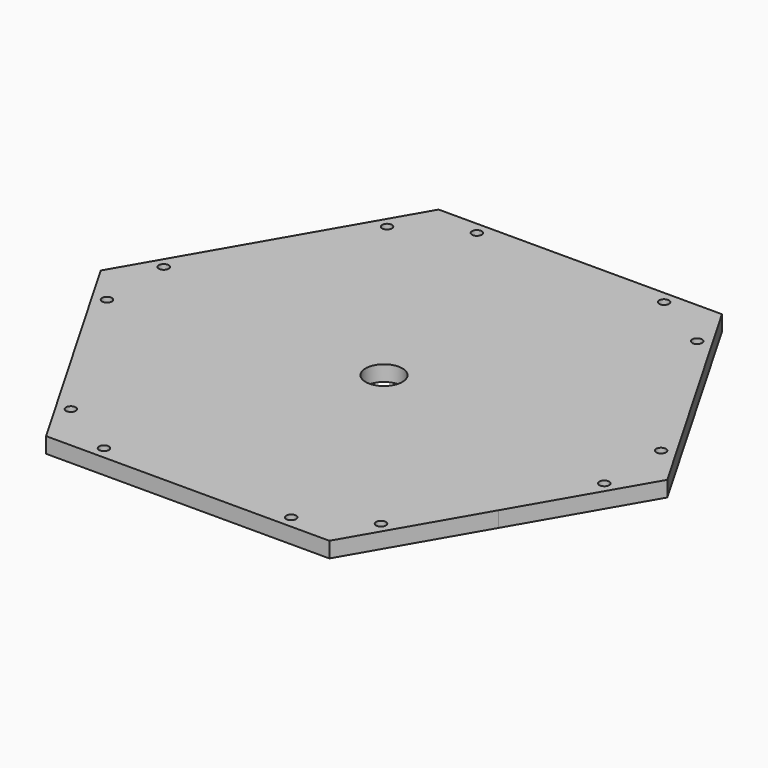
from build123d import *

# Parameters (mm, degrees)
F1_DEPTH = 6.35
F2_R     = 2
F3_DEPTH = 20000
F4_R     = 7.5
F5_DEPTH = 55.3


with BuildPart() as f1:
    # F0 (on Top) → F1 (new body)
    with BuildSketch(Plane.XY):
        with BuildLine():
            ThreePointArc((86.6025406101, -49.9999995987), (96.5925826889, -25.8819042865), (100, 0))
            ThreePointArc((100, 0), (96.5925827815, 25.8819039408), (86.602540968, 49.9999989789))
            ThreePointArc((86.602540968, 49.9999989789), (50.0000005105, 86.6025400837), (0, 100))
            ThreePointArc((0, 100), (-50.0000005105, 86.6025400837), (-86.602540968, 49.9999989789))
            ThreePointArc((-86.602540968, 49.9999989789), (-100, 8.447e-07), (-86.6025418126, -49.9999975159))
            ThreePointArc((-86.6025418126, -49.9999975159), (-50.000001242, -86.6025396613), (0, -100))
            ThreePointArc((0, -100), (50.0000002007, -86.6025402626), (86.6025406101, -49.9999995987))
        make_face()
        with BuildLine():
            ThreePointArc((86.602540968, 49.9999989789), (96.5925827815, 25.8819039408), (100, 0))
            ThreePointArc((100, 0), (96.5925826889, -25.8819042865), (86.6025406101, -49.9999995987))
            Line((86.6025406101, -49.9999995987), (115.4700538379, 0))
            Line((115.4700538379, 0), (86.602540968, 49.9999989789))
        make_face()
        with BuildLine():
            ThreePointArc((0, 100), (50.0000005105, 86.6025400837), (86.602540968, 49.9999989789))
            Line((86.602540968, 49.9999989789), (57.735026919, 100))
            Line((57.735026919, 100), (0, 100))
        make_face()
        with BuildLine():
            Line((57.735026919, -100), (86.6025406101, -49.9999995987))
            ThreePointArc((86.6025406101, -49.9999995987), (50.0000002007, -86.6025402626), (0, -100))
            Line((0, -100), (57.735026919, -100))
        make_face()
        with BuildLine():
            ThreePointArc((-86.602540968, 49.9999989789), (-50.0000005105, 86.6025400837), (0, 100))
            Line((0, 100), (-57.735026919, 100))
            Line((-57.735026919, 100), (-86.602540968, 49.9999989789))
        make_face()
        with BuildLine():
            Line((-57.735026919, -100), (0, -100))
            ThreePointArc((0, -100), (-50.000001242, -86.6025396613), (-86.6025418126, -49.9999975159))
            Line((-86.6025418126, -49.9999975159), (-57.735026919, -100))
        make_face()
        with BuildLine():
            ThreePointArc((-86.6025418126, -49.9999975159), (-100, 8.447e-07), (-86.602540968, 49.9999989789))
            Line((-86.602540968, 49.9999989789), (-115.4700538379, 0))
            Line((-115.4700538379, 0), (-86.6025418126, -49.9999975159))
        make_face()
    extrude(amount=F1_DEPTH)

    # F2 (on Top) → F3 (cut)
    with BuildSketch(Plane.XY):
        with Locations((38.148275573, 95)):
            Circle(F2_R)
        with Locations((-38.148275573, 95)):
            Circle(F2_R)
        with Locations((-63.198275573, 80.5373757568)):
            Circle(F2_R)
        with Locations((-101.346551146, 14.4626242432)):
            Circle(F2_R)
        with Locations((-101.346551146, -14.4626242432)):
            Circle(F2_R)
        with Locations((-63.198275573, -80.5373757568)):
            Circle(F2_R)
        with Locations((-38.148275573, -95)):
            Circle(F2_R)
        with Locations((38.148275573, -95)):
            Circle(F2_R)
        with Locations((63.198275573, -80.5373757568)):
            Circle(F2_R)
        with Locations((101.346551146, -14.4626242432)):
            Circle(F2_R)
        with Locations((101.346551146, 14.4626242432)):
            Circle(F2_R)
        with Locations((63.198275573, 80.5373757568)):
            Circle(F2_R)
    extrude(amount=F3_DEPTH, mode=Mode.SUBTRACT)

    # F4 (on Top) → F5 (cut)
    with BuildSketch(Plane.XY):
        Circle(F4_R)
    extrude(amount=F5_DEPTH, mode=Mode.SUBTRACT)


solid = f1.part
